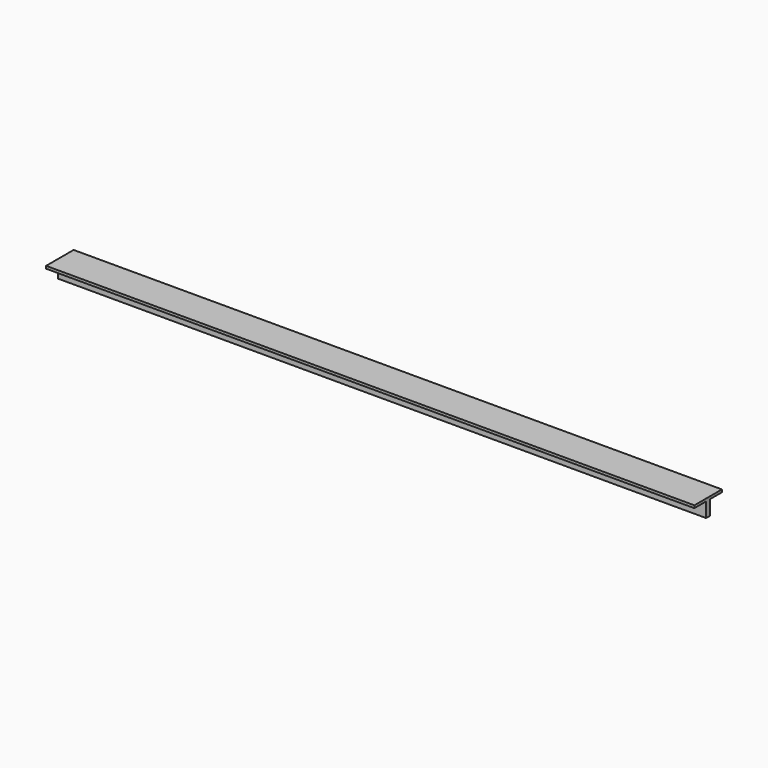
from build123d import *

# Parameters (mm, degrees)
F1_DEPTH = 1219.2


with BuildPart() as f1:
    # F0 (on Right) → F1 (new body)
    with BuildSketch(Plane.YZ):
        Polygon((0, -32.372466), (0, 0), (-32.372466, 0), (-32.372466, -4.772527), (-4.772527, -4.772527), (-4.772527, -32.372466), align=None)
        Polygon((32.372466, 0), (0, 0), (0, -32.372466), (4.772527, -32.372466), (4.772527, -4.772527), (32.372466, -4.772527), align=None)
    extrude(amount=F1_DEPTH)


solid = f1.part
